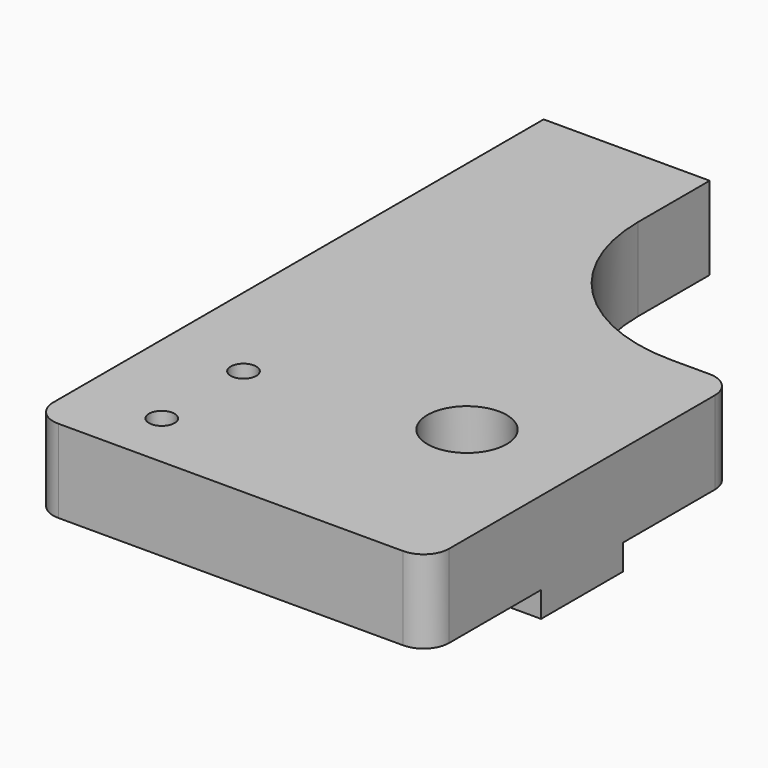
from build123d import *

# Parameters (mm, degrees)
PAD_DEPTH       = 6.5
SKETCH001_W     = 18
SKETCH001_H     = 8
SKETCH001_W_2   = 5
PAD001_DEPTH    = 2
SKETCH002_R     = 3.1
POCKET_DEPTH    = 6.501
SKETCH003_R     = 1
POCKET001_DEPTH = 8.501
FILLET_R        = 13
FILLET001_R     = 2


with BuildPart() as part:
    # Sketch → Pad (new body)
    with BuildSketch(Plane.XY):
        Polygon((0, -15), (31, -15), (31, 15), (13, 15), (13, 35), (0, 35), align=None)
    extrude(amount=PAD_DEPTH)

    # Sketch001 (on Face7 of Pad) → Pad001 (join)
    with BuildSketch(Plane(origin=(0, 0, 0), x_dir=(1, 0, 0), z_dir=(0, 0, -1))):
        with Locations((9, 0)):
            Rectangle(SKETCH001_W, SKETCH001_H)
        with Locations((28.5, 0)):
            Rectangle(SKETCH001_W_2, SKETCH001_H)
    extrude(amount=PAD001_DEPTH)

    # Sketch002 (on Face4 of Pad001) → Pocket (cut, through all)
    with BuildSketch(Plane(origin=(0, 0, 0), x_dir=(1, 0, 0), z_dir=(0, 0, -1))):
        with Locations((22, 0)):
            Circle(SKETCH002_R)
    extrude(amount=-POCKET_DEPTH, mode=Mode.SUBTRACT)

    # Sketch003 (on Face5 of Pocket) → Pocket001 (cut, through all)
    with BuildSketch(Plane.XY.offset(6.5)):
        with Locations((6.5, -10.5)):
            Circle(SKETCH003_R)
        with Locations((6.5, -2.5)):
            Circle(SKETCH003_R)
    extrude(amount=-POCKET001_DEPTH, mode=Mode.SUBTRACT)

    # Fillet
    fillet_edges = [part.edges().sort_by_distance(p)[0] for p in [
        (13, 15, 3.25),
    ]]
    fillet(fillet_edges, radius=FILLET_R)

    # Fillet001
    fillet001_edges = [part.edges().sort_by_distance(p)[0] for p in [
        (31, 15, 3.25),
        (31, -15, 3.25),
        (0, -15, 3.25),
    ]]
    fillet(fillet001_edges, radius=FILLET001_R)


solid = part.part
